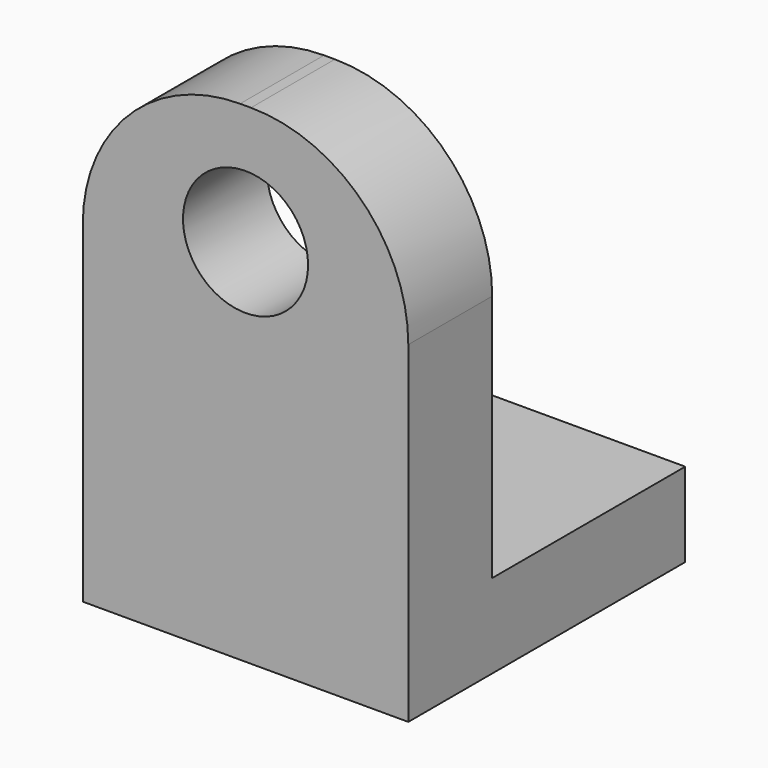
from build123d import *

# Parameters (mm, degrees)
F0_W     = 78.8246691227
F0_H     = 118.5333281755
F1_DEPTH = 25.4
F2_R     = 38.1
F3_R     = 15.1432948242
F4_DEPTH = 25.401
F5_W     = 78.8246691227
F5_H     = 20.3456624932
F6_DEPTH = 58.42
F7_W     = 19.0527010709
F7_H     = 20.3456624932
F8_DEPTH = 19.558


with BuildPart() as f1:
    # F0 (on Front) → F1 (new body)
    with BuildSketch(Plane.XZ):
        Rectangle(F0_W, F0_H)
    extrude(amount=F1_DEPTH)

    # F2
    f2_edges = [f1.edges().sort_by_distance(p)[0] for p in [
        (-39.412335, -12.7, 59.266664),
        (39.412335, -12.7, 59.266664),
    ]]
    fillet(f2_edges, radius=F2_R)

    # F3 (on Front) → F4 (cut, through all)
    with BuildSketch(Plane.XZ):
        with Locations((0, 30.226001516)):
            Circle(F3_R)
    extrude(amount=F4_DEPTH, mode=Mode.SUBTRACT)

    # F5 (on Front) → F6 (join)
    with BuildSketch(Plane.XZ):
        with Locations((0, -49.0938328412)):
            Rectangle(F5_W, F5_H)
    extrude(amount=-F6_DEPTH)

    # F7 (on face) → F8 (cut)
    with BuildSketch(Plane(origin=(0, 58.42, 0), x_dir=(-1, 0, 0), z_dir=(0, 1, 0))):
        with Locations((29.8859840259, -49.0938328412)):
            Rectangle(F7_W, F7_H)
    extrude(amount=-F8_DEPTH, mode=Mode.SUBTRACT)


solid = f1.part
